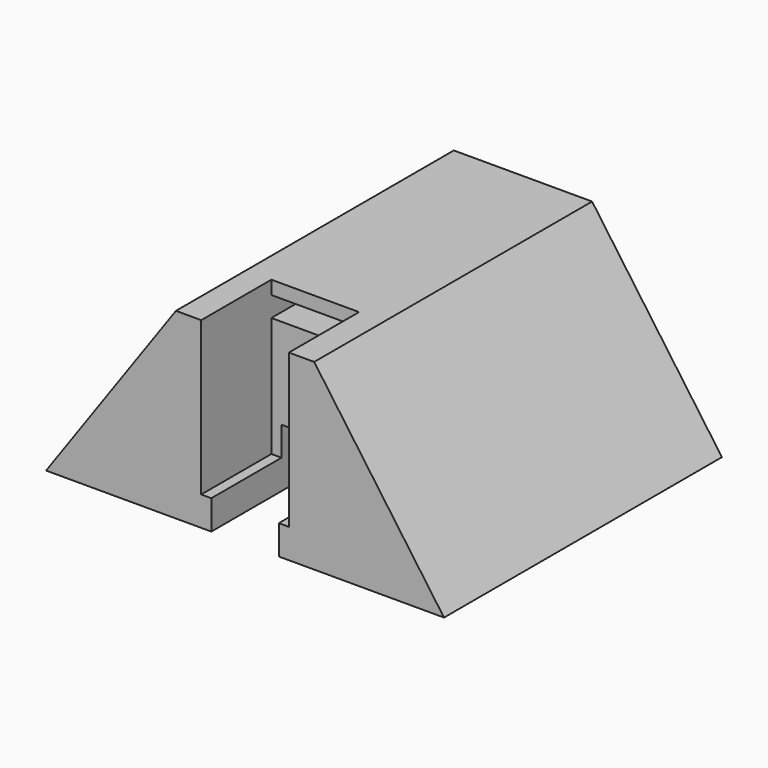
from build123d import *

# Parameters (mm, degrees)
F1_W      = 20.5
F1_H      = 51.5
F2_DEPTH  = 27.11
F4_W      = 59
F4_H      = 51.5
F3_W      = 20.5
F3_H      = 51.5
F6_W      = 10
F6_H      = 13
F7_DEPTH  = 27.11
F8_W      = 13
F8_H      = 13
F9_DEPTH  = 22.75
F10_W     = 10
F10_H     = 8.67
F11_DEPTH = 38.5
F12_W     = 13
F12_H     = 3
F13_DEPTH = 5


with BuildPart() as f2:
    # F1 (on face) → F2 (new body)
    with BuildSketch(Plane.XY):
        Rectangle(F1_W, F1_H)
    extrude(amount=F2_DEPTH)

    # F4 (on face) → F5 section 0
    with BuildSketch(Plane.XY):
        Rectangle(F4_W, F4_H)
    # F3 (on face) → F5 section 1
    with BuildSketch(Plane.XY.offset(27.11)):
        Rectangle(F3_W, F3_H)
    loft()

    # F6 (on face) → F7 (cut, through all)
    with BuildSketch(Plane.XY.offset(27.11)):
        with Locations((0, -19.25)):
            Rectangle(F6_W, F6_H)
    extrude(amount=-F7_DEPTH, mode=Mode.SUBTRACT)

    # F8 (on face) → F9 (cut)
    with BuildSketch(Plane.XY.offset(27.11)):
        with Locations((0, -19.25)):
            Rectangle(F8_W, F8_H)
    extrude(amount=-F9_DEPTH, mode=Mode.SUBTRACT)

    # F10 (on face) → F11 (cut, through all)
    with BuildSketch(Plane.XZ.offset(12.75)):
        with Locations((0, 4.335)):
            Rectangle(F10_W, F10_H)
    extrude(amount=-F11_DEPTH, mode=Mode.SUBTRACT)

    # F12 (on face) → F13 (cut)
    with BuildSketch(Plane.XZ.offset(12.75)):
        with Locations((0, 23.61)):
            Rectangle(F12_W, F12_H)
    extrude(amount=-F13_DEPTH, mode=Mode.SUBTRACT)


solid = f2.part
